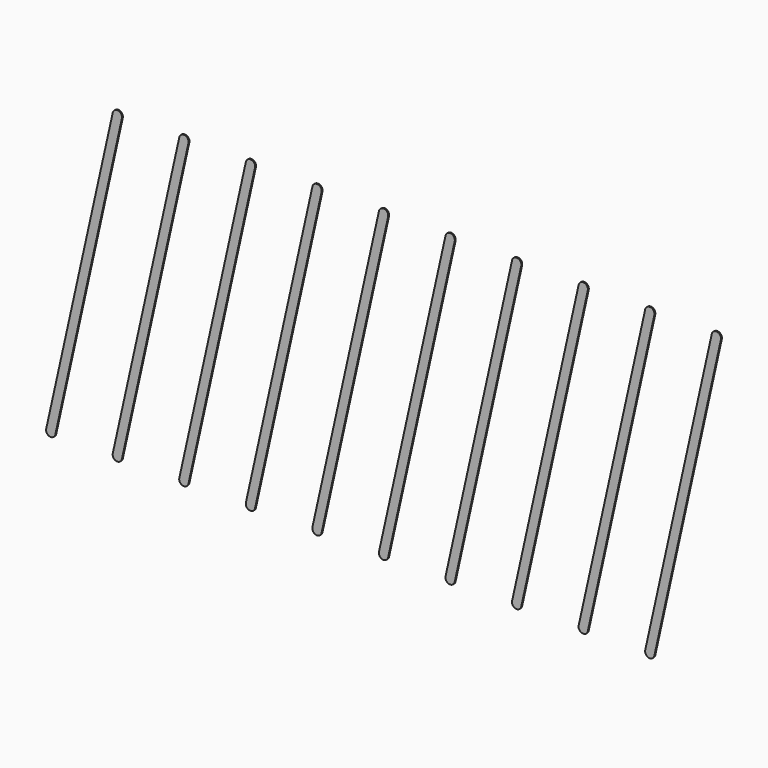
from build123d import *

# Parameters (mm, degrees)
PAD_DEPTH     = 6
ARRAY_X_COUNT = 10
ARRAY_X_PITCH = 355


with BuildPart() as array:
    # Sketch → Pad (new body)
    with BuildSketch(Plane.XZ):
        with BuildLine():
            Line((-24.40647, 1594.584815), (330.59353, -5.415185))
            ThreePointArc((330.59353, -5.415185), (360.415185, -24.40647), (379.40647, 5.415185))
            Line((379.40647, 5.415185), (24.40647, 1605.415185))
            ThreePointArc((24.40647, 1605.415185), (-5.415185, 1624.40647), (-24.40647, 1594.584815))
        make_face()
    extrude(amount=PAD_DEPTH)

    # Array X: Array ×10


with BuildPart() as array_1:
    add(array.part)
    with Locations(*[(i * ARRAY_X_PITCH, 0, 0) for i in range(1, ARRAY_X_COUNT)]):
        add(array.part)


with BuildPart() as array_mirrored:
    # mirror: instance of Array
    add(array_1.part.mirror(Plane(origin=(-100, 2.4e-05, 400), x_dir=(0, 1, 0), z_dir=(0, 0, 1))))


with BuildPart() as array_mirrored_1:
    # mirror placement: moved
    add(array_mirrored.part.moved(Location((0, 6, 800))))


solid = array_mirrored_1.part
